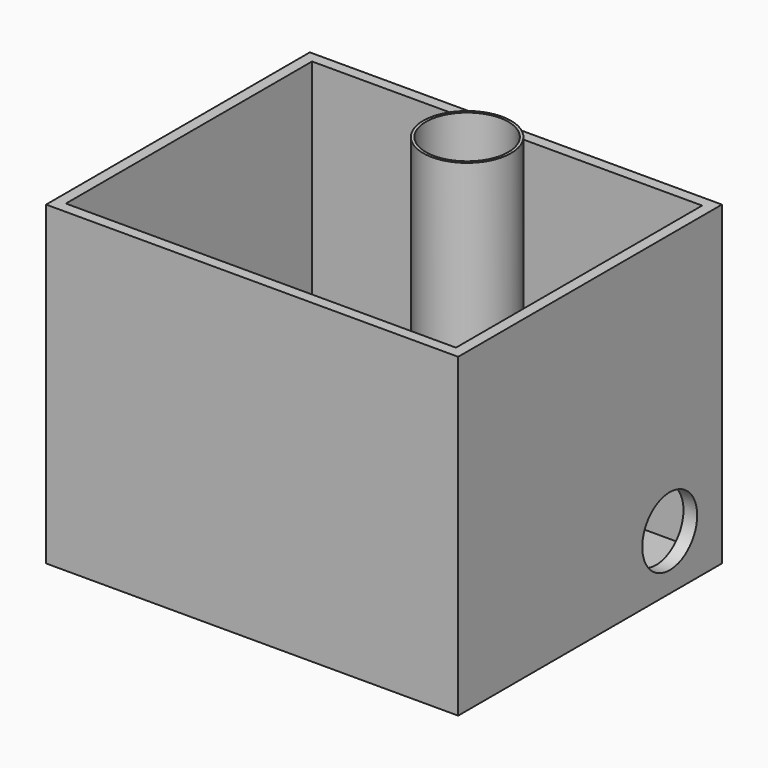
from build123d import *

# Parameters (mm, degrees)
F0_W      = 1500
F0_H      = 800
F1_DEPTH  = 1200
F2_T      = -40
F4_DEPTH  = 300
F5_W      = 1000
F5_H      = 150
F6_DEPTH  = 300
F7_W      = 50
F7_H      = 575
F8_DEPTH  = 300
F9_W      = 375
F9_H      = 300
F9_R      = 125
F10_DEPTH = 50
F11_R     = 150
F12_DEPTH = 50
F13_W     = 1500
F13_H     = 1200
F14_DEPTH = 50
F15_R     = 160
F15_R_2   = 150
F16_DEPTH = 1250


with BuildPart() as f1:
    # F0 (on Front) → F1 (new body)
    with BuildSketch(Plane.XZ):
        with Locations((750, 400)):
            Rectangle(F0_W, F0_H)
    extrude(amount=F1_DEPTH)

    # F2
    f2_openings = [f1.faces().sort_by_distance(p)[0] for p in [
        (750, -600, 800),
    ]]
    offset(amount=F2_T, openings=f2_openings)

    # F3 (on face) → F4 (join)
    with BuildSketch(Plane(origin=(0, 0, 0), x_dir=(1, 0, 0), z_dir=(0, 0, -1))):
        Polygon((1500, 0), (1500, 50), (50, 50), (50, 1150), (1500, 1150), (1500, 1200), (0, 1200), (0, 0), align=None)
    extrude(amount=F4_DEPTH)

    # F5 (on face) → F6 (join)
    with BuildSketch(Plane(origin=(0, 0, 0), x_dir=(1, 0, 0), z_dir=(0, 0, -1))):
        with Locations((1000, 500)):
            Rectangle(F5_W, F5_H)
    extrude(amount=F6_DEPTH)

    # F7 (on face) → F8 (join)
    with BuildSketch(Plane(origin=(0, 0, 0), x_dir=(1, 0, 0), z_dir=(0, 0, -1))):
        with Locations((1475, 862.5)):
            Rectangle(F7_W, F7_H)
    extrude(amount=F8_DEPTH)

    # F9 (on face) → F10 (join)
    with BuildSketch(Plane.YZ.offset(1500)):
        with Locations((-237.5, -150)):
            Rectangle(F9_W, F9_H)
        with Locations((-237.5, -150)):
            Circle(F9_R, mode=Mode.SUBTRACT)
    extrude(amount=-F10_DEPTH)

    # F11 (on face) → F12 (cut)
    with BuildSketch(Plane(origin=(0, 0, 0), x_dir=(1, 0, 0), z_dir=(0, 0, -1))):
        with Locations((1262.5, 862.5)):
            Circle(F11_R)
    extrude(amount=-F12_DEPTH, mode=Mode.SUBTRACT)

    # F13 (on face) → F14 (join)
    with BuildSketch(Plane(origin=(0, 0, -300), x_dir=(1, 0, 0), z_dir=(0, 0, -1))):
        with Locations((750, 600)):
            Rectangle(F13_W, F13_H)
    extrude(amount=F14_DEPTH)

    # F15 (on face) → F16 (join)
    with BuildSketch(Plane.XY.offset(40)):
        with Locations((1262.5, -862.5)):
            Circle(F15_R)
        with Locations((1262.5, -862.5)):
            Circle(F15_R_2, mode=Mode.SUBTRACT)
    extrude(amount=F16_DEPTH)


solid = f1.part
